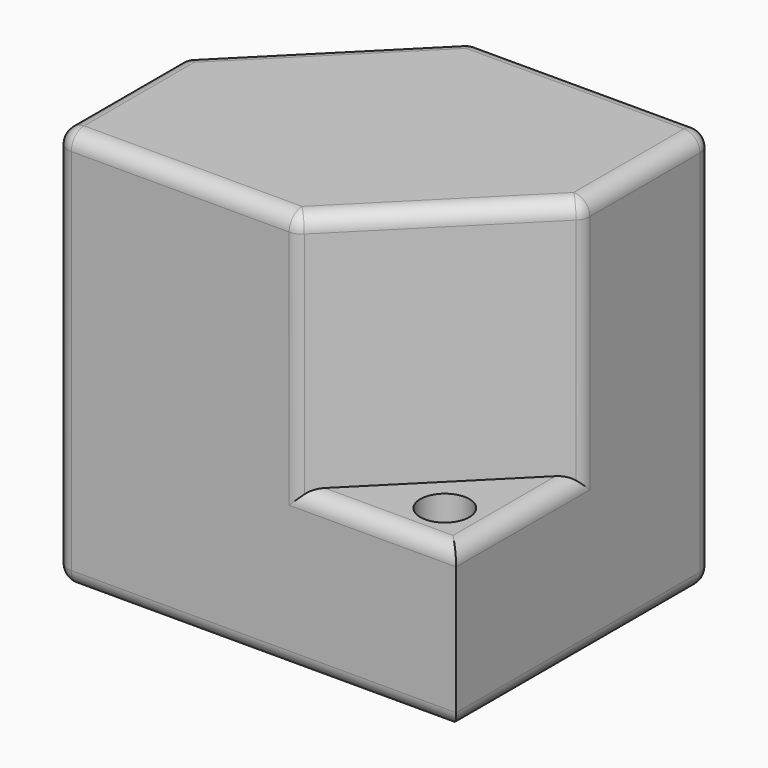
from build123d import *

# Parameters (mm, degrees)
F0_W     = 127
F0_H     = 127
F1_DEPTH = 101.6
F3_DEPTH = 76.2
F5_DEPTH = 76.2
F7_R     = 8.382674823
F8_DEPTH = 50.8
F6_R     = 7.7668100233
F9_DEPTH = 50.8
F10_R    = 5.08


with BuildPart() as f1:
    # F0 (on Front) → F1 (new body)
    with BuildSketch(Plane.XZ):
        Rectangle(F0_W, F0_H)
    extrude(amount=F1_DEPTH)

    # F2 (on face) → F3 (cut)
    with BuildSketch(Plane.XY.offset(63.5)):
        Polygon((-12.7, 0), (-63.5, 0), (-63.5, -50.8), align=None)
    extrude(amount=-F3_DEPTH, mode=Mode.SUBTRACT)

    # F4 (on face) → F5 (cut)
    with BuildSketch(Plane.XY.offset(63.5)):
        Polygon((12.7, -101.6), (63.5, -101.6), (63.5, -50.8), align=None)
    extrude(amount=-F5_DEPTH, mode=Mode.SUBTRACT)

    # F7 (on face) → F8 (cut)
    with BuildSketch(Plane.XY.offset(-12.7)):
        with Locations((-48.26, -15.24)):
            Circle(F7_R)
    extrude(amount=-F8_DEPTH, mode=Mode.SUBTRACT)

    # F6 (on face) → F9 (cut)
    with BuildSketch(Plane.XY.offset(-12.7)):
        with Locations((47.7252677083, -86.36)):
            Circle(F6_R)
    extrude(amount=-F9_DEPTH, mode=Mode.SUBTRACT)

    # F10
    f10_edges = [f1.edges().sort_by_distance(p)[0] for p in [
        (-38.1, -25.4, 63.5),
        (-63.5, -76.2, 63.5),
        (-25.4, -101.6, 63.5),
        (38.1, -76.2, 63.5),
        (25.4, 0, 63.5),
        (63.5, -25.4, 63.5),
        (63.5, -50.8, 25.4),
        (63.5, 0, 0),
        (63.5, -50.8, -63.5),
        (63.5, -76.2, -12.7),
        (38.1, -101.6, -12.7),
        (12.7, -101.6, 25.4),
        (-63.5, -101.6, 0),
        (0, -101.6, -63.5),
        (-63.5, -50.8, -63.5),
        (-63.5, -50.8, 25.4),
        (-63.5, -25.4, -12.7),
        (0, 0, -63.5),
        (-38.1, 0, -12.7),
        (-12.7, 0, 25.4),
    ]]
    fillet(f10_edges, radius=F10_R)


solid = f1.part
